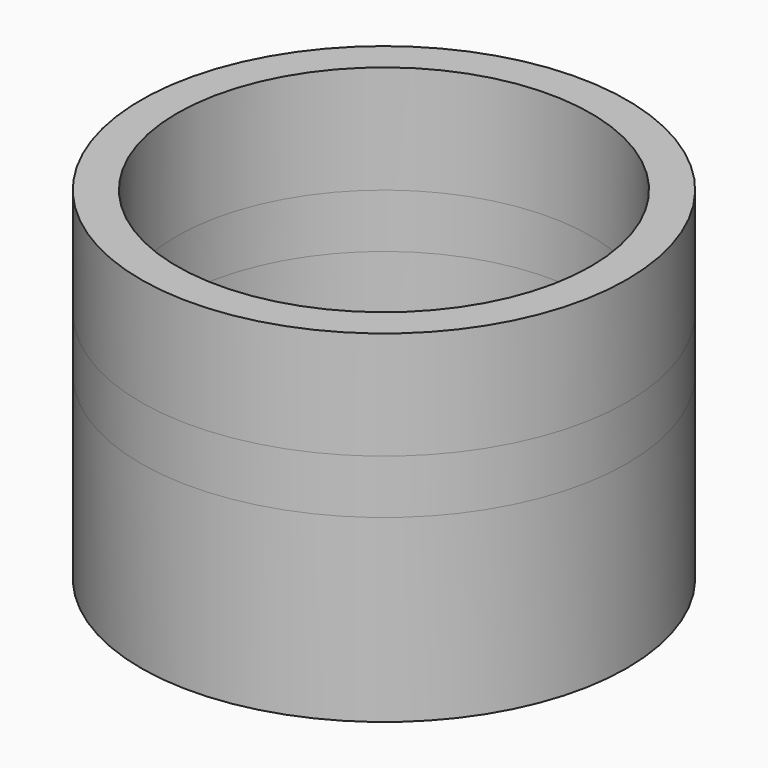
from build123d import *

# Parameters (mm, degrees)
F0_R     = 1.35
F0_R_2   = 1.15
F1_DEPTH = 1.5
F2_DEPTH = 1.6
F3_DEPTH = 1.8
F4_DEPTH = 1.9
F5_DEPTH = 1.3
F6_DEPTH = 1


with BuildPart() as f1:
    # F0 (on Top) → F1 (new body)
    with BuildSketch(Plane.XY):
        Circle(F0_R)
        Circle(F0_R_2, mode=Mode.SUBTRACT)
    extrude(amount=F1_DEPTH)


with BuildPart() as f2:
    # F0 (on Top) → F2 (new body)
    with BuildSketch(Plane.XY):
        Circle(F0_R)
        Circle(F0_R_2, mode=Mode.SUBTRACT)
    extrude(amount=F2_DEPTH)


with BuildPart() as f3:
    # F0 (on Top) → F3 (new body)
    with BuildSketch(Plane.XY):
        Circle(F0_R)
        Circle(F0_R_2, mode=Mode.SUBTRACT)
    extrude(amount=F3_DEPTH)


with BuildPart() as f4:
    # F0 (on Top) → F4 (new body)
    with BuildSketch(Plane.XY):
        Circle(F0_R)
        Circle(F0_R_2, mode=Mode.SUBTRACT)
    extrude(amount=F4_DEPTH)


with BuildPart() as f5:
    # F0 (on Top) → F5 (new body)
    with BuildSketch(Plane.XY):
        Circle(F0_R)
        Circle(F0_R_2, mode=Mode.SUBTRACT)
    extrude(amount=F5_DEPTH)


with BuildPart() as f6:
    # F0 (on Top) → F6 (new body)
    with BuildSketch(Plane.XY):
        Circle(F0_R)
        Circle(F0_R_2, mode=Mode.SUBTRACT)
    extrude(amount=F6_DEPTH)


solid = Compound([f1.part, f2.part, f3.part, f4.part, f5.part, f6.part])
